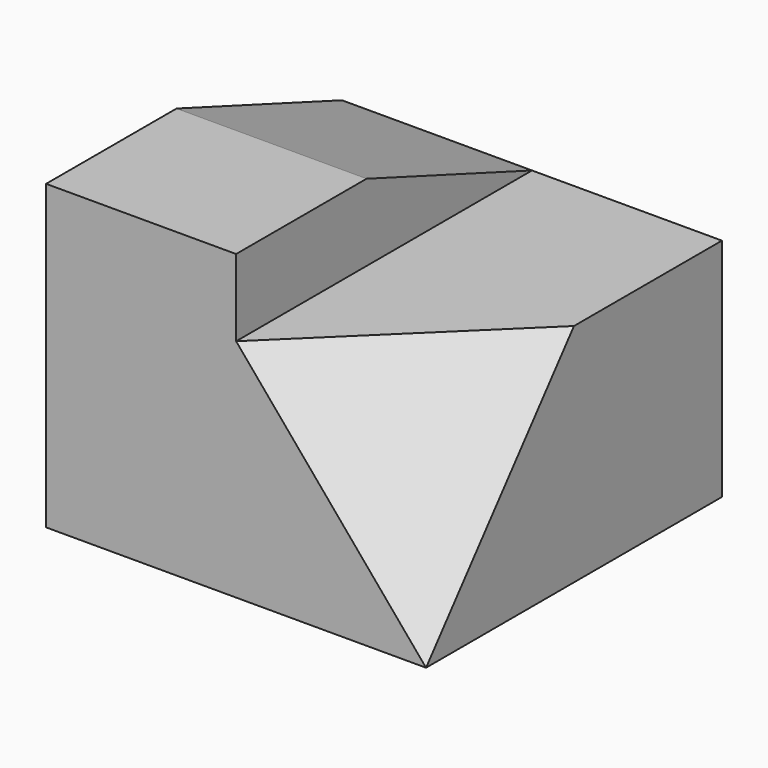
from build123d import *

# Parameters (mm, degrees)
F0_W     = 121.8784451485
F0_H     = 118.6291240156
F1_DEPTH = 72.39
F3_DEPTH = 60.96
F7_DEPTH = 49.1183372137


with BuildPart() as f1:
    # F0 (on Top) → F1 (new body)
    with BuildSketch(Plane.XY):
        with Locations((1.138780266, 7.0254523307)):
            Rectangle(F0_W, F0_H)
    extrude(amount=F1_DEPTH)

    # F2 (on face) → F3 (join)
    with BuildSketch(Plane(origin=(-59.8004423082, 0, 0), x_dir=(0, -1, 0), z_dir=(-1, 0, 0))):
        Polygon((-66.3400143385, 72.39), (52.2891096771, 72.39), (52.2891096771, 97.0183685422), (0, 97.0183685422), align=None)
    extrude(amount=-F3_DEPTH)

    # F6 (on 3pt) → F7 (cut, through all)
    with BuildSketch(Plane(origin=(41.9043027589, -43.0374073868, 35.2637791007), x_dir=(-0.7987945895, -0.4653434391, 0.3812908174), z_dir=(-0.6016038595, 0.6178714042, -0.5062684309))):
        Polygon((-25.255178673, 60.4466734116), (-25.255178673, -33.1403415326), (51.0077879865, 22.8536668575), align=None)
    extrude(amount=-F7_DEPTH, mode=Mode.SUBTRACT)


solid = f1.part
